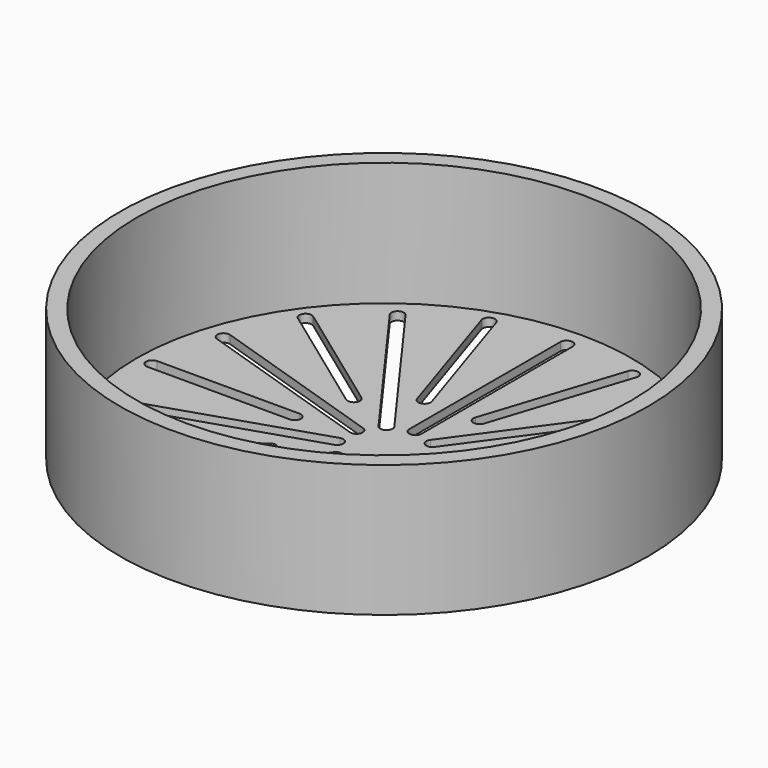
from build123d import *

# Parameters (mm, degrees)
F0_R     = 47.625
F1_DEPTH = 1.5875
F0_R_2   = 50.8
F2_DEPTH = 25.4


with BuildPart() as f1:
    # F0 (on Top) → F1 (new body)
    with BuildSketch(Plane.XY):
        Circle(F0_R)
        with BuildLine():
            Line((-14.920541, -42.067761), (-6.444111, -15.979992))
            ThreePointArc((-6.444111, -15.979992), (-4.943836, -15.215563), (-4.179408, -16.715838))
            Line((-4.179408, -16.715838), (-12.655838, -42.803608))
            ThreePointArc((-12.655838, -42.803608), (-14.156113, -43.568036), (-14.920541, -42.067761))
        make_face(mode=Mode.SUBTRACT)
        with BuildLine():
            ThreePointArc((-1.190625, -7.540625), (0, -6.35), (1.190625, -7.540625))
            Line((1.190625, -7.540625), (1.190625, -43.894375))
            ThreePointArc((1.190625, -43.894375), (0, -45.085), (-1.190625, -43.894375))
            Line((-1.190625, -43.894375), (-1.190625, -7.540625))
        make_face(mode=Mode.SUBTRACT)
        with BuildLine():
            Line((-44.619519, 1.190625), (-17.189215, 1.190625))
            ThreePointArc((-17.189215, 1.190625), (-15.99859, 0), (-17.189215, -1.190625))
            Line((-17.189215, -1.190625), (-44.619519, -1.190625))
            ThreePointArc((-44.619519, -1.190625), (-45.810144, 0), (-44.619519, 1.190625))
        make_face(mode=Mode.SUBTRACT)
        with BuildLine():
            ThreePointArc((-5.395504, -5.400662), (-3.732436, -5.137258), (-3.469032, -6.800326))
            Line((-3.469032, -6.800326), (-24.83723, -36.211127))
            ThreePointArc((-24.83723, -36.211127), (-26.500298, -36.474531), (-26.763702, -34.811464))
            Line((-26.763702, -34.811464), (-5.395504, -5.400662))
        make_face(mode=Mode.SUBTRACT)
        with BuildLine():
            Line((-36.797781, -25.263459), (-14.606199, -9.140331))
            ThreePointArc((-14.606199, -9.140331), (-12.943131, -9.403735), (-13.206535, -11.066803))
            Line((-13.206535, -11.066803), (-35.398117, -27.189931))
            ThreePointArc((-35.398117, -27.189931), (-37.061185, -26.926527), (-36.797781, -25.263459))
        make_face(mode=Mode.SUBTRACT)
        with BuildLine():
            ThreePointArc((-7.539484, -1.19783), (-6.039209, -1.962258), (-6.803637, -3.462533))
            Line((-6.803637, -3.462533), (-41.378108, -14.696459))
            ThreePointArc((-41.378108, -14.696459), (-42.878383, -13.932031), (-42.113955, -12.431756))
            Line((-42.113955, -12.431756), (-7.539484, -1.19783))
        make_face(mode=Mode.SUBTRACT)
        with BuildLine():
            Line((12.655838, -42.803608), (4.179408, -16.715838))
            ThreePointArc((4.179408, -16.715838), (4.943836, -15.215563), (6.444111, -15.979992))
            Line((6.444111, -15.979992), (14.920541, -42.067761))
            ThreePointArc((14.920541, -42.067761), (14.156113, -43.568036), (12.655838, -42.803608))
        make_face(mode=Mode.SUBTRACT)
        with BuildLine():
            ThreePointArc((3.469032, -6.800326), (3.732436, -5.137258), (5.395504, -5.400662))
            Line((5.395504, -5.400662), (26.763702, -34.811464))
            ThreePointArc((26.763702, -34.811464), (26.500298, -36.474531), (24.83723, -36.211127))
            Line((24.83723, -36.211127), (3.469032, -6.800326))
        make_face(mode=Mode.SUBTRACT)
        with BuildLine():
            Line((35.398117, -27.189931), (13.206535, -11.066803))
            ThreePointArc((13.206535, -11.066803), (12.943131, -9.403735), (14.606199, -9.140331))
            Line((14.606199, -9.140331), (36.797781, -25.263459))
            ThreePointArc((36.797781, -25.263459), (37.061185, -26.926527), (35.398117, -27.189931))
        make_face(mode=Mode.SUBTRACT)
        with BuildLine():
            ThreePointArc((6.803637, -3.462533), (6.039209, -1.962258), (7.539484, -1.19783))
            Line((7.539484, -1.19783), (42.113955, -12.431756))
            ThreePointArc((42.113955, -12.431756), (42.878383, -13.932031), (41.378108, -14.696459))
            Line((41.378108, -14.696459), (6.803637, -3.462533))
        make_face(mode=Mode.SUBTRACT)
        with BuildLine():
            Line((44.619519, -1.190625), (17.189215, -1.190625))
            ThreePointArc((17.189215, -1.190625), (15.99859, 0), (17.189215, 1.190625))
            Line((17.189215, 1.190625), (44.619519, 1.190625))
            ThreePointArc((44.619519, 1.190625), (45.810144, 0), (44.619519, -1.190625))
        make_face(mode=Mode.SUBTRACT)
        with BuildLine():
            ThreePointArc((-6.803637, 3.462533), (-6.039209, 1.962258), (-7.539484, 1.19783))
            Line((-7.539484, 1.19783), (-42.113955, 12.431756))
            ThreePointArc((-42.113955, 12.431756), (-42.878383, 13.932031), (-41.378108, 14.696459))
            Line((-41.378108, 14.696459), (-6.803637, 3.462533))
        make_face(mode=Mode.SUBTRACT)
        with BuildLine():
            Line((-35.398117, 27.189931), (-13.206535, 11.066803))
            ThreePointArc((-13.206535, 11.066803), (-12.943131, 9.403735), (-14.606199, 9.140331))
            Line((-14.606199, 9.140331), (-36.797781, 25.263459))
            ThreePointArc((-36.797781, 25.263459), (-37.061185, 26.926527), (-35.398117, 27.189931))
        make_face(mode=Mode.SUBTRACT)
        with BuildLine():
            ThreePointArc((-3.469032, 6.800326), (-3.732436, 5.137258), (-5.395504, 5.400662))
            Line((-5.395504, 5.400662), (-26.763702, 34.811464))
            ThreePointArc((-26.763702, 34.811464), (-26.500298, 36.474531), (-24.83723, 36.211127))
            Line((-24.83723, 36.211127), (-3.469032, 6.800326))
        make_face(mode=Mode.SUBTRACT)
        with BuildLine():
            Line((-12.655838, 42.803608), (-4.179408, 16.715838))
            ThreePointArc((-4.179408, 16.715838), (-4.943836, 15.215563), (-6.444111, 15.979992))
            Line((-6.444111, 15.979992), (-14.920541, 42.067761))
            ThreePointArc((-14.920541, 42.067761), (-14.156113, 43.568036), (-12.655838, 42.803608))
        make_face(mode=Mode.SUBTRACT)
        with BuildLine():
            ThreePointArc((-1.190625, 43.894375), (0, 45.085), (1.190625, 43.894375))
            Line((1.190625, 43.894375), (1.190625, 7.540625))
            ThreePointArc((1.190625, 7.540625), (0, 6.35), (-1.190625, 7.540625))
            Line((-1.190625, 7.540625), (-1.190625, 43.894375))
        make_face(mode=Mode.SUBTRACT)
        with BuildLine():
            ThreePointArc((7.539484, 1.19783), (6.039209, 1.962258), (6.803637, 3.462533))
            Line((6.803637, 3.462533), (41.378108, 14.696459))
            ThreePointArc((41.378108, 14.696459), (42.878383, 13.932031), (42.113955, 12.431756))
            Line((42.113955, 12.431756), (7.539484, 1.19783))
        make_face(mode=Mode.SUBTRACT)
        with BuildLine():
            Line((36.797781, 25.263459), (14.606199, 9.140331))
            ThreePointArc((14.606199, 9.140331), (12.943131, 9.403735), (13.206535, 11.066803))
            Line((13.206535, 11.066803), (35.398117, 27.189931))
            ThreePointArc((35.398117, 27.189931), (37.061185, 26.926527), (36.797781, 25.263459))
        make_face(mode=Mode.SUBTRACT)
        with BuildLine():
            ThreePointArc((5.395504, 5.400662), (3.732436, 5.137258), (3.469032, 6.800326))
            Line((3.469032, 6.800326), (24.83723, 36.211127))
            ThreePointArc((24.83723, 36.211127), (26.500298, 36.474531), (26.763702, 34.811464))
            Line((26.763702, 34.811464), (5.395504, 5.400662))
        make_face(mode=Mode.SUBTRACT)
        with BuildLine():
            ThreePointArc((12.655838, 42.803608), (14.156113, 43.568036), (14.920541, 42.067761))
            Line((14.920541, 42.067761), (6.444111, 15.979992))
            ThreePointArc((6.444111, 15.979992), (4.943836, 15.215563), (4.179408, 16.715838))
            Line((4.179408, 16.715838), (12.655838, 42.803608))
        make_face(mode=Mode.SUBTRACT)
    extrude(amount=F1_DEPTH)

    # F0 (on Top) → F2 (join)
    with BuildSketch(Plane.XY):
        Circle(F0_R_2)
        Circle(F0_R, mode=Mode.SUBTRACT)
    extrude(amount=F2_DEPTH)


solid = f1.part
